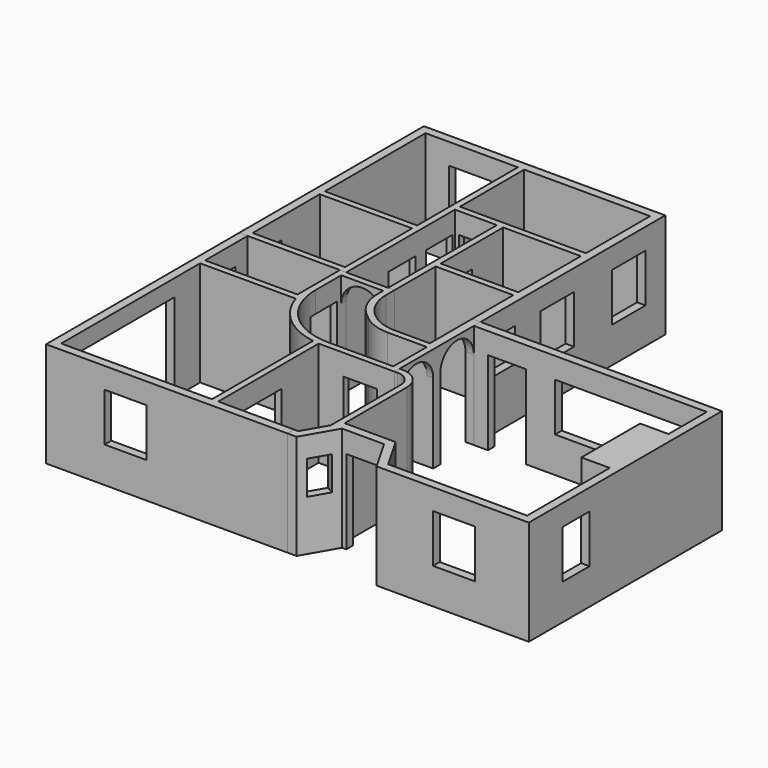
from build123d import *

# Parameters (mm, degrees)
F0_W      = 44
F0_H      = 40
F0_W_2    = 37
F0_H_2    = 37.2484461665
F0_H_3    = 60
F0_W_3    = 60
F0_H_4    = 38.2625687607
F1_DEPTH  = 50
F2_W      = 16
F2_H      = 40
F5_DEPTH  = 10
F3_W      = 16
F3_H      = 40
F6_DEPTH  = 10
F4_W      = 16
F4_H      = 40
F7_DEPTH  = 10
F8_W      = 12
F8_H      = 16
F11_DEPTH = 10
F9_W      = 20
F9_H      = 23
F12_DEPTH = 10
F10_W     = 20
F10_H     = 23
F10_W_2   = 12
F10_H_2   = 16
F13_DEPTH = 10
F15_DEPTH = 50
F17_DEPTH = 10
F18_W     = 12.6543615962
F18_H     = 40
F18_W_2   = 3.3456384038
F19_DEPTH = 5
F21_DEPTH = 10
F22_W     = 16
F22_H     = 40
F23_DEPTH = 10
F24_W     = 30
F24_H     = 40
F25_DEPTH = 10
F26_W     = 60
F26_H     = 42
F26_W_2   = 12
F26_H_2   = 16
F27_DEPTH = 10
F29_DEPTH = 50
F30_W     = 20
F30_H     = 23
F31_DEPTH = 10
F32_W     = 10
F32_H     = 16
F33_DEPTH = 10
F34_W     = 10
F34_H     = 16
F35_DEPTH = 10
F36_W     = 16
F36_H     = 40
F37_DEPTH = 10
F38_W     = 20
F38_H     = 23
F39_DEPTH = 10
F40_W     = 60
F40_H     = 23
F40_W_2   = 18
F40_H_2   = 39.9143844843
F41_DEPTH = 10
F42_W     = 19
F42_H     = 18.9619744418
F43_DEPTH = 10
F44_W     = 16
F44_H     = 23
F45_DEPTH = 10


with BuildPart() as f1:
    # F0 (on Top) → F1 (new body)
    with BuildSketch(Plane.XY):
        Polygon((-1.8720051646, 105.1881361194), (-116.8720051646, 105.1881361194), (-116.8720051646, -4.8118638806), (-112.8720051646, -4.8118638806), (-65.8720051646, -4.8118638806), (-65.8720051646, 59.9255673587), (-45.8720051646, 59.9255673587), (-45.8720051646, -4.8118638806), (-42.8720051646, -4.8118638806), (-42.8720051646, 19.6771211922), (-5.8720051646, 19.6771211922), (-5.8720051646, -4.8118638806), (-1.8720051646, -4.8118638806), align=None)
        with Locations((-90.8720051646, 18.1881361194)):
            Rectangle(F0_W, F0_H, mode=Mode.SUBTRACT)
        with Locations((-24.3720051646, 41.3013442755)):
            Rectangle(F0_W_2, F0_H_2, mode=Mode.SUBTRACT)
        with Locations((-90.8720051646, 71.1881361194)):
            Rectangle(F0_W, F0_H_3, mode=Mode.SUBTRACT)
        with Locations((-35.8720051646, 82.0568517391)):
            Rectangle(F0_W_3, F0_H_4, mode=Mode.SUBTRACT)
    extrude(amount=F1_DEPTH)

    # F2 (on face) → F5 (cut)
    with BuildSketch(Plane.XZ.offset(-59.9255673587)):
        with Locations((-55.8420330622, 20)):
            Rectangle(F2_W, F2_H)
    extrude(amount=-F5_DEPTH, mode=Mode.SUBTRACT)

    # F3 (on face) → F6 (cut)
    with BuildSketch(Plane.YZ.offset(-65.8720051646)):
        with Locations((50.5784410408, 20)):
            Rectangle(F3_W, F3_H)
        with Locations((28.4815678298, 20)):
            Rectangle(F3_W, F3_H)
    extrude(amount=-F6_DEPTH, mode=Mode.SUBTRACT)

    # F4 (on face) → F7 (cut)
    with BuildSketch(Plane(origin=(-45.8720051646, 0, 0), x_dir=(0, -1, 0), z_dir=(-1, 0, 0))):
        with Locations((-33.2270892411, 20)):
            Rectangle(F4_W, F4_H)
    extrude(amount=-F7_DEPTH, mode=Mode.SUBTRACT)

    # F8 (on face) → F11 (cut)
    with BuildSketch(Plane(origin=(-116.8720051646, 0, 0), x_dir=(0, -1, 0), z_dir=(-1, 0, 0))):
        with Locations((-9.4618066642, 32)):
            Rectangle(F8_W, F8_H)
    extrude(amount=-F11_DEPTH, mode=Mode.SUBTRACT)

    # F9 (on face) → F12 (cut)
    with BuildSketch(Plane(origin=(0, 105.1881361194, 0), x_dir=(-1, 0, 0), z_dir=(0, 1, 0))):
        with Locations((91.8058082461, 28.5)):
            Rectangle(F9_W, F9_H)
    extrude(amount=-F12_DEPTH, mode=Mode.SUBTRACT)

    # F10 (on face) → F13 (cut)
    with BuildSketch(Plane.YZ.offset(-1.8720051646)):
        with Locations((83.4407709131, 28.5)):
            Rectangle(F10_W, F10_H)
        with Locations((40.842153071, 28.5)):
            Rectangle(F10_W, F10_H)
        with Locations((9.6129126565, 32)):
            Rectangle(F10_W_2, F10_H_2)
    extrude(amount=-F13_DEPTH, mode=Mode.SUBTRACT)


with BuildPart() as f15:
    # F14 (on face) → F15 (new body)
    with BuildSketch(Plane.XY):
        with BuildLine():
            Line((-112.8720051646, -4.8118638806), (-116.8720051646, -4.8118638806))
            Line((-116.8720051646, -4.8118638806), (-116.8720051646, -119.8118638806))
            Line((-116.8720051646, -119.8118638806), (-1.8720051646, -119.8118638806))
            Line((-1.8720051646, -119.8118638806), (-1.8720051646, -115.8118638806))
            Line((-1.8720051646, -115.8118638806), (-4.8720051646, -115.8118638806))
            Line((-4.8720051646, -115.8118638806), (-38.0380702913, -115.8118638806))
            Line((-38.0380702913, -115.8118638806), (-38.0380702913, -56.0365603248))
            Line((-38.0380702913, -56.0365603248), (-4.8720051646, -56.0365603248))
            Line((-4.8720051646, -56.0365603248), (-1.8720051646, -56.0365603248))
            Line((-1.8720051646, -56.0365603248), (-1.8720051646, -53.0365603248))
            Line((-1.8720051646, -53.0365603248), (-1.8720051646, -33.0365603248))
            Line((-1.8720051646, -33.0365603248), (-1.8720051646, -4.8118638806))
            Line((-1.8720051646, -4.8118638806), (-5.8720051646, -4.8118638806))
            Line((-5.8720051646, -4.8118638806), (-5.8720051646, -30.0365603248))
            Line((-5.8720051646, -30.0365603248), (-22.5841735853, -30.0365603248))
            ThreePointArc((-22.5841735853, -30.0365603248), (-29.3484472537, -28.8579471424), (-35.3154747107, -25.4610204986))
            Line((-35.3154747107, -25.4610204986), (-35.60330629, -25.2234452144))
            ThreePointArc((-35.60330629, -25.2234452144), (-40.9637991955, -18.3246515099), (-42.8720051646, -9.7989850405))
            Line((-42.8720051646, -9.7989850405), (-42.8720051646, -4.8118638806))
            Line((-42.8720051646, -4.8118638806), (-45.8720051646, -4.8118638806))
            Line((-45.8720051646, -4.8118638806), (-65.8720051646, -4.8118638806))
            Line((-65.8720051646, -4.8118638806), (-68.8720051646, -4.8118638806))
            Line((-68.8720051646, -4.8118638806), (-68.8720051646, -30.062517643))
            Line((-68.8720051646, -30.062517643), (-112.8720051646, -30.062517643))
            Line((-112.8720051646, -30.062517643), (-112.8720051646, -4.8118638806))
        make_face()
        with BuildLine():
            Line((-41.0380702913, -115.8118638806), (-112.8720051646, -115.8118638806))
            Line((-112.8720051646, -115.8118638806), (-112.8720051646, -33.062517643))
            Line((-112.8720051646, -33.062517643), (-67.3121098059, -33.062517643))
            ThreePointArc((-67.3121098059, -33.062517643), (-57.3736836116, -48.0700943135), (-41.0380702913, -55.6296849235))
            Line((-41.0380702913, -55.6296849235), (-41.0380702913, -115.8118638806))
        make_face(mode=Mode.SUBTRACT)
        with BuildLine():
            Line((-65.8720051646, -23.0365603248), (-65.8720051646, -7.8118638806))
            Line((-65.8720051646, -7.8118638806), (-45.8720051646, -7.8118638806))
            Line((-45.8720051646, -7.8118638806), (-45.8720051646, -11.2127198733))
            ThreePointArc((-45.8720051646, -11.2127198733), (-43.9637991955, -19.7383863426), (-38.60330629, -26.6371800471))
            Line((-38.60330629, -26.6371800471), (-36.3936535506, -28.4610204986))
            ThreePointArc((-36.3936535506, -28.4610204986), (-30.4266260937, -31.8579471424), (-23.6623524252, -33.0365603248))
            Line((-23.6623524252, -33.0365603248), (-4.8720051646, -33.0365603248))
            Line((-4.8720051646, -33.0365603248), (-4.8720051646, -53.0365603248))
            Line((-4.8720051646, -53.0365603248), (-35.8720051646, -53.0365603248))
            ThreePointArc((-35.8720051646, -53.0365603248), (-57.0852086002, -44.2497637604), (-65.8720051646, -23.0365603248))
        make_face(mode=Mode.SUBTRACT)
    extrude(amount=F15_DEPTH)

    # F16 (on face) → F17 (cut)
    with BuildSketch(Plane.YZ.offset(-1.8720051646)):
        with BuildLine():
            Line((-53.0365603248, 38), (-53.0365603248, 0))
            Line((-53.0365603248, 0), (-33.0365603248, 0))
            Line((-33.0365603248, 0), (-33.0365603248, 38))
            ThreePointArc((-33.0365603248, 38), (-43.0365603248, 48), (-53.0365603248, 38))
        make_face()
        with BuildLine():
            Line((-28.8118638806, 38), (-28.8118638806, 0))
            Line((-28.8118638806, 0), (-8.8118638806, 0))
            Line((-8.8118638806, 0), (-8.8118638806, 38))
            ThreePointArc((-8.8118638806, 38), (-18.8118638806, 48), (-28.8118638806, 38))
        make_face()
    extrude(amount=-F17_DEPTH, mode=Mode.SUBTRACT)

    # F18 (on face) → F19 (cut, symmetric)
    with BuildSketch(Plane.YZ.offset(-65.8720051646)):
        with Locations((-16.7093795267, 20)):
            Rectangle(F18_W, F18_H)
        with Locations((-24.7093795267, 20)):
            Rectangle(F18_W_2, F18_H)
    extrude(amount=F19_DEPTH, both=True, mode=Mode.SUBTRACT)

    # F20 (on face) → F21 (cut)
    with BuildSketch(Plane.XZ.offset(7.8118638806)):
        with BuildLine():
            Line((-65.8720051646, 38), (-65.8720051646, 0))
            Line((-65.8720051646, 0), (-45.8720051646, 0))
            Line((-45.8720051646, 0), (-45.8720051646, 38))
            ThreePointArc((-45.8720051646, 38), (-55.8720051646, 48), (-65.8720051646, 38))
        make_face()
    extrude(amount=-F21_DEPTH, mode=Mode.SUBTRACT)

    # F22 (on face) → F23 (cut)
    with BuildSketch(Plane(origin=(0, -53.0365603248, 0), x_dir=(-1, 0, 0), z_dir=(0, 1, 0))):
        with Locations((18.231311433, 20)):
            Rectangle(F22_W, F22_H)
    extrude(amount=-F23_DEPTH, mode=Mode.SUBTRACT)

    # F24 (on face) → F25 (cut)
    with BuildSketch(Plane.YZ.offset(-38.0380702913)):
        with Locations((-93.1351041794, 20)):
            Rectangle(F24_W, F24_H)
    extrude(amount=-F25_DEPTH, mode=Mode.SUBTRACT)

    # F26 (on face) → F27 (cut)
    with BuildSketch(Plane(origin=(-116.8720051646, 0, 0), x_dir=(0, -1, 0), z_dir=(-1, 0, 0))):
        with Locations((78.3879968524, 21)):
            Rectangle(F26_W, F26_H)
        with Locations((18.1321240962, 31.9717176905)):
            Rectangle(F26_W_2, F26_H_2)
    extrude(amount=-F27_DEPTH, mode=Mode.SUBTRACT)

    # F30 (on face) → F31 (cut)
    with BuildSketch(Plane.XZ.offset(119.8118638806)):
        with Locations((-79.0453515947, 28.5)):
            Rectangle(F30_W, F30_H)
    extrude(amount=-F31_DEPTH, mode=Mode.SUBTRACT)


with BuildPart() as f29:
    # F28 (on Top) → F29 (new body)
    with BuildSketch(Plane.XY):
        with BuildLine():
            Line((113.1279948354, -4.8118638806), (-1.8720051646, -4.8118638806))
            Line((-1.8720051646, -4.8118638806), (-1.8720051646, -8.8118638806))
            Line((-1.8720051646, -8.8118638806), (109.1279948354, -8.8118638806))
            Line((109.1279948354, -8.8118638806), (109.1279948354, -31.6147954762))
            Line((109.1279948354, -31.6147954762), (95.6051051617, -31.6147954762))
            Line((95.6051051617, -31.6147954762), (95.6051051617, -66.6147954762))
            Line((95.6051051617, -66.6147954762), (109.1279948354, -66.6147954762))
            Line((109.1279948354, -66.6147954762), (109.1279948354, -115.8118638806))
            Line((109.1279948354, -115.8118638806), (42.9361916163, -115.8118638806))
            Line((42.9361916163, -115.8118638806), (33.8508651438, -100.0756168269))
            Line((33.8508651438, -100.0756168269), (9.60345117, -100.0756168269))
            Line((9.60345117, -100.0756168269), (9.60345117, -63.0416343439))
            ThreePointArc((9.60345117, -63.0416343439), (6.6745189819, -55.970566532), (-0.39654883, -53.0416343439))
            Line((-0.39654883, -53.0416343439), (-1.8720051646, -53.0416343439))
            Line((-1.8720051646, -53.0416343439), (-1.8720051646, -56.0416343439))
            Line((-1.8720051646, -56.0416343439), (-0.39654883, -56.0416343439))
            ThreePointArc((-0.39654883, -56.0416343439), (4.5531986383, -58.0918868756), (6.60345117, -63.0416343439))
            Line((6.60345117, -63.0416343439), (6.60345117, -104.6285060528))
            Line((6.60345117, -104.6285060528), (0.1467365177, -115.8118638806))
            Line((0.1467365177, -115.8118638806), (-1.8720051646, -115.8118638806))
            Line((-1.8720051646, -115.8118638806), (-1.8720051646, -119.8118638806))
            Line((-1.8720051646, -119.8118638806), (2.4561375945, -119.8118638806))
            Line((2.4561375945, -119.8118638806), (11.541464067, -104.0756168269))
            Line((11.541464067, -104.0756168269), (31.541464067, -104.0756168269))
            Line((31.541464067, -104.0756168269), (40.6267905395, -119.8118638806))
            Line((40.6267905395, -119.8118638806), (113.1279948354, -119.8118638806))
            Line((113.1279948354, -119.8118638806), (113.1279948354, -4.8118638806))
        make_face()
    extrude(amount=F29_DEPTH)

    # F32 (on face) → F33 (cut)
    with BuildSketch(Plane(origin=(53.7221620935, -31.0165047462, 0), x_dir=(0.5, 0.8660254038, 0), z_dir=(0.8660254038, -0.5, 0))):
        with Locations((-93.4250930548, 32)):
            Rectangle(F32_W, F32_H)
    extrude(amount=-F33_DEPTH, mode=Mode.SUBTRACT)

    # F34 (on face) → F35 (cut)
    with BuildSketch(Plane(origin=(-21.4099659931, -12.3610496294, 0), x_dir=(0.5, -0.8660254038, 0), z_dir=(-0.8660254038, -0.5, 0))):
        with Locations((113.8269603252, 32)):
            Rectangle(F34_W, F34_H)
    extrude(amount=-F35_DEPTH, mode=Mode.SUBTRACT)

    # F36 (on face) → F37 (cut)
    with BuildSketch(Plane.XZ.offset(104.0756168269)):
        with Locations((21.5701540858, 20)):
            Rectangle(F36_W, F36_H)
    extrude(amount=-F37_DEPTH, mode=Mode.SUBTRACT)

    # F38 (on face) → F39 (cut)
    with BuildSketch(Plane.XZ.offset(119.8118638806)):
        with Locations((77.5305584669, 28.5)):
            Rectangle(F38_W, F38_H)
    extrude(amount=-F39_DEPTH, mode=Mode.SUBTRACT)

    # F40 (on face) → F41 (cut)
    with BuildSketch(Plane(origin=(0, -4.8118638806, 0), x_dir=(-1, 0, 0), z_dir=(0, 1, 0))):
        with Locations((-66.8232303858, 28.5)):
            Rectangle(F40_W, F40_H)
        with Locations((-13.8698716965, 19.9571922421)):
            Rectangle(F40_W_2, F40_H_2)
    extrude(amount=-F41_DEPTH, mode=Mode.SUBTRACT)

    # F42 (on face) → F43 (cut)
    with BuildSketch(Plane(origin=(95.6051051617, 0, 0), x_dir=(0, -1, 0), z_dir=(-1, 0, 0))):
        with Locations((49.1147954762, 9.4809872209)):
            Rectangle(F42_W, F42_H)
    extrude(amount=-F43_DEPTH, mode=Mode.SUBTRACT)

    # F44 (on face) → F45 (cut)
    with BuildSketch(Plane.YZ.offset(113.1279948354)):
        with Locations((-91.6706594132, 28.5)):
            Rectangle(F44_W, F44_H)
    extrude(amount=-F45_DEPTH, mode=Mode.SUBTRACT)


solid = Compound([f1.part, f15.part, f29.part])
